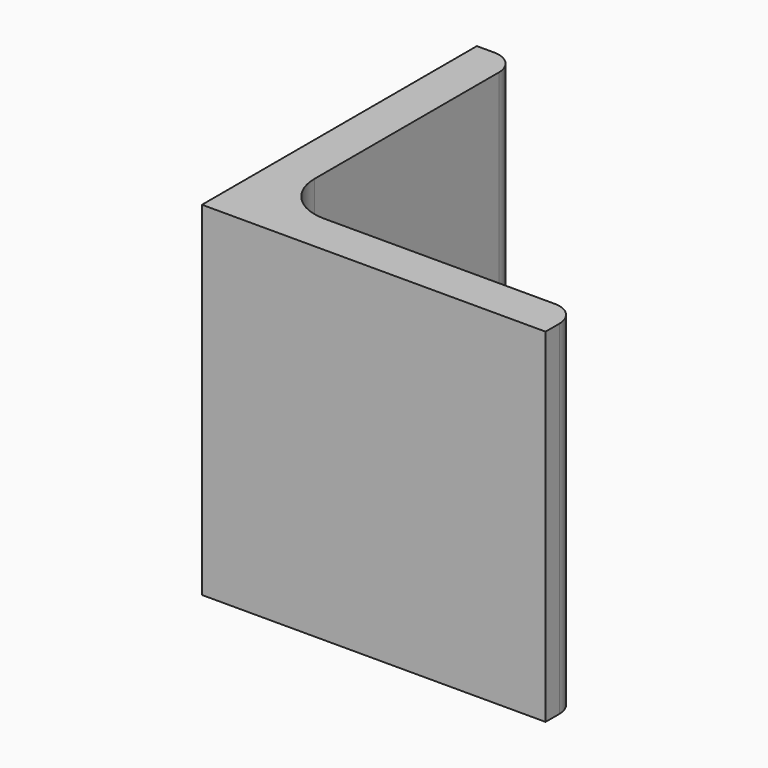
from build123d import *

# Parameters (mm, degrees)
EXTRUDE_DEPTH = 50


with BuildPart() as part:
    # Sketch → Extrude (new body)
    with BuildSketch(Plane.XY):
        with BuildLine():
            Line((0, 0), (50, 0))
            Line((50, 0), (50, 2.5))
            ThreePointArc((50, 2.5), (48.974874, 4.974874), (46.5, 6))
            Line((46.5, 6), (13, 6))
            ThreePointArc((6, 13), (8.050253, 8.050253), (13, 6))
            Line((6, 46.5), (6, 13))
            ThreePointArc((6, 46.5), (4.974874, 48.974874), (2.5, 50))
            Line((0, 50), (2.5, 50))
            Line((0, 0), (0, 50))
        make_face()
    extrude(amount=EXTRUDE_DEPTH)


solid = part.part
